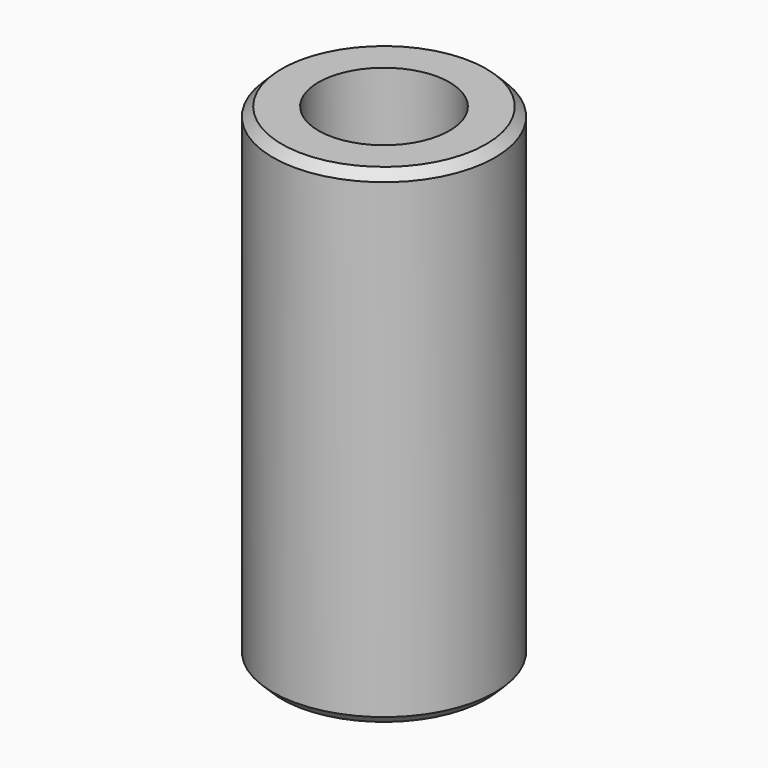
from build123d import *

# Parameters (mm, degrees)
F0_R     = 12.5
F1_DEPTH = 55
F2_SIZE  = 1
F4_D     = 14.75
F4_DEPTH = 27
F4_TIP   = 4.4313470653


with BuildPart() as f1:
    # F0 (on Top) → F1 (new body)
    with BuildSketch(Plane.XY):
        Circle(F0_R)
    extrude(amount=F1_DEPTH)

    # F2
    f2_edges = [f1.edges().sort_by_distance(p)[0] for p in [
        (-12.5, 0, 0),
        (-12.5, 0, 55),
    ]]
    chamfer(f2_edges, length=F2_SIZE)

    # F4
    with Locations(Plane.XY.offset(55)):
        with Locations((0, 0)):
            Hole(F4_D / 2, depth=F4_DEPTH)
            with Locations((0, 0, -(F4_DEPTH + F4_TIP / 2))):  # 118° drill point
                Cone(0, F4_D / 2, F4_TIP, mode=Mode.SUBTRACT)


solid = f1.part
